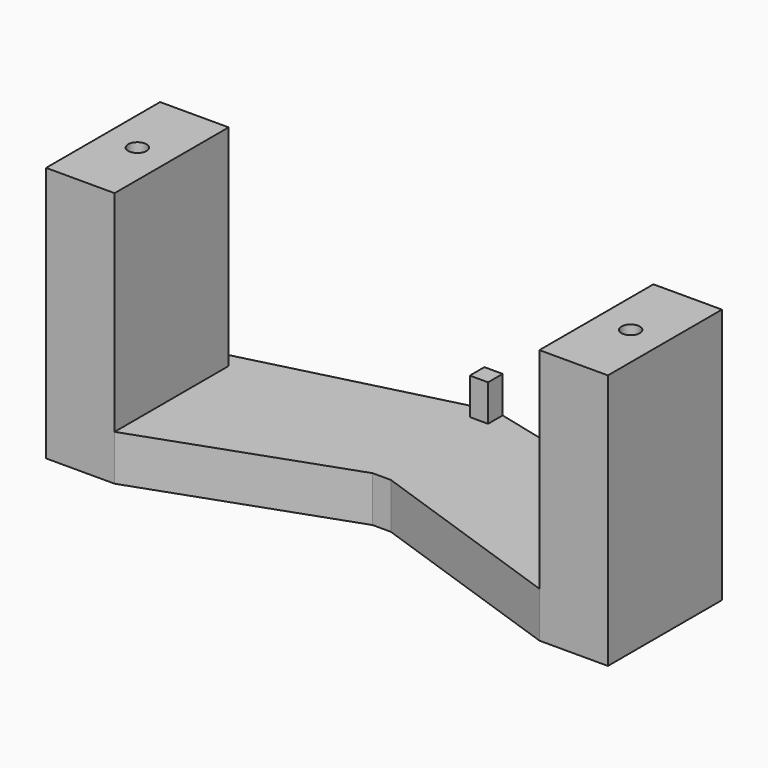
from build123d import *

# Parameters (mm, degrees)
F0_W     = 1
F0_H     = 1
F0_W_2   = 3.75
F0_H_2   = 7.8
F0_R     = 0.5
F1_DEPTH = 2.5
F2_W     = 3.75
F2_H     = 7.8
F2_R     = 0.5
F3_DEPTH = 11.5
F4_W     = 1
F4_H     = 1
F5_DEPTH = 2


with BuildPart() as f1:
    # F0 (on Top) → F1 (new body)
    with BuildSketch(Plane.XY):
        Polygon((-15.375, 3.9), (-11.625, 3.9), (-11.625, -3.9), (-0.625, 0), (0.375, 0), (11.625, -3.9), (11.625, 3.9), (15.375, 3.9), (0.375, 7.65), (0.375, 6.65), (-0.625, 6.65), (-0.625, 7.65), align=None)
        with Locations((-0.125, 7.15)):
            Rectangle(F0_W, F0_H)
        with Locations((-13.5, 0)):
            Rectangle(F0_W_2, F0_H_2)
        with Locations((-13.5, 0)):
            Circle(F0_R, mode=Mode.SUBTRACT)
        with Locations((13.5, 0)):
            Rectangle(F0_W_2, F0_H_2)
        with Locations((13.5, 0)):
            Circle(F0_R, mode=Mode.SUBTRACT)
    extrude(amount=F1_DEPTH)

    # F2 (on face) → F3 (join)
    with BuildSketch(Plane.XY.offset(2.5)):
        with Locations((-13.5, 0)):
            Rectangle(F2_W, F2_H)
        with Locations((-13.5, 0)):
            Circle(F2_R, mode=Mode.SUBTRACT)
        with Locations((13.5, 0)):
            Rectangle(F2_W, F2_H)
        with Locations((13.5, 0)):
            Circle(F2_R, mode=Mode.SUBTRACT)
    extrude(amount=F3_DEPTH)

    # F4 (on face) → F5 (join)
    with BuildSketch(Plane.XY.offset(2.5)):
        with Locations((-0.125, 7.15)):
            Rectangle(F4_W, F4_H)
    extrude(amount=F5_DEPTH)


solid = f1.part
